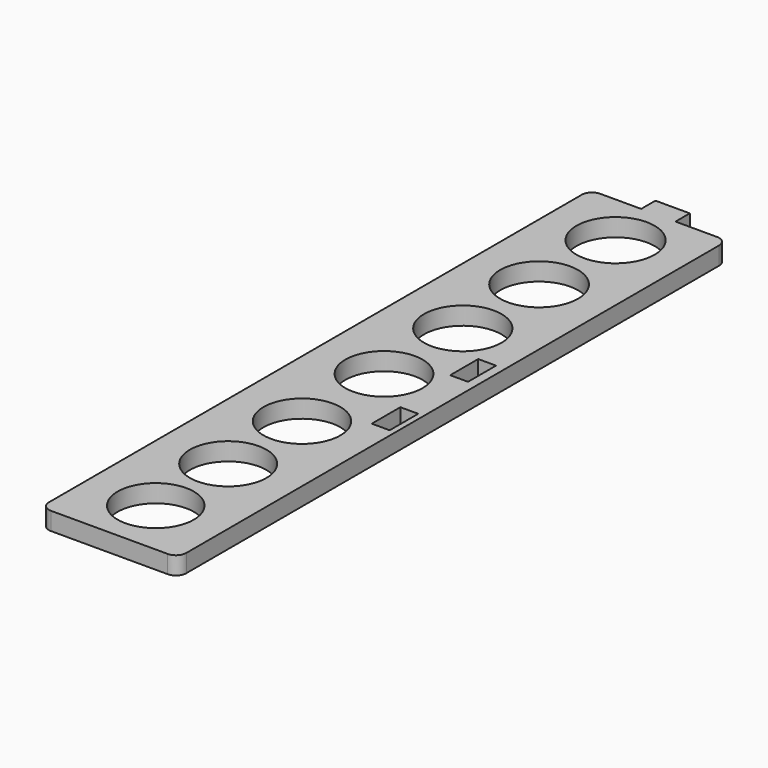
from build123d import *

# Parameters (mm, degrees)
F0_R     = 14.097
F0_R_2   = 14.1605
F0_R_3   = 14.224
F0_R_4   = 14.2875
F0_W     = 6.604
F0_H     = 13.208
F0_R_5   = 14.351
F0_H_2   = 12.954
F0_R_6   = 14.4145
F0_R_7   = 14.478
F1_DEPTH = 6.604


with BuildPart() as f1:
    # F0 (on Top) → F1 (new body)
    with BuildSketch(Plane.XY):
        with BuildLine():
            ThreePointArc((25.4, 123.19), (24.284077, 125.884077), (21.59, 127))
            Line((21.59, 127), (6.239323, 127))
            Line((6.239323, 127), (6.239323, 133.604))
            Line((6.239323, 133.604), (-6.460677, 133.604))
            Line((-6.460677, 133.604), (-6.460677, 127))
            Line((-6.460677, 127), (-21.59, 127))
            ThreePointArc((-21.59, 127), (-24.284077, 125.884077), (-25.4, 123.19))
            Line((-25.4, 123.19), (-25.4, -123.19))
            ThreePointArc((-25.4, -123.19), (-24.284077, -125.884077), (-21.59, -127))
            Line((-21.59, -127), (21.59, -127))
            ThreePointArc((21.59, -127), (24.284077, -125.884077), (25.4, -123.19))
            Line((25.4, -123.19), (25.4, 123.19))
        make_face()
        with Locations((0, -105.552882)):
            Circle(F0_R, mode=Mode.SUBTRACT)
        with Locations((0, -72.061613)):
            Circle(F0_R_2, mode=Mode.SUBTRACT)
        with Locations((0, -37.917089)):
            Circle(F0_R_3, mode=Mode.SUBTRACT)
        Circle(F0_R_4, mode=Mode.SUBTRACT)
        with Locations((20.013824, -19.935825)):
            Rectangle(F0_W, F0_H, mode=Mode.SUBTRACT)
        with Locations((0, 36.432702)):
            Circle(F0_R_5, mode=Mode.SUBTRACT)
        with Locations((18.755223, 17.765409)):
            Rectangle(F0_W, F0_H_2, mode=Mode.SUBTRACT)
        with Locations((0, 71.722105)):
            Circle(F0_R_6, mode=Mode.SUBTRACT)
        with Locations((0, 107.080773)):
            Circle(F0_R_7, mode=Mode.SUBTRACT)
    extrude(amount=F1_DEPTH)


solid = f1.part
